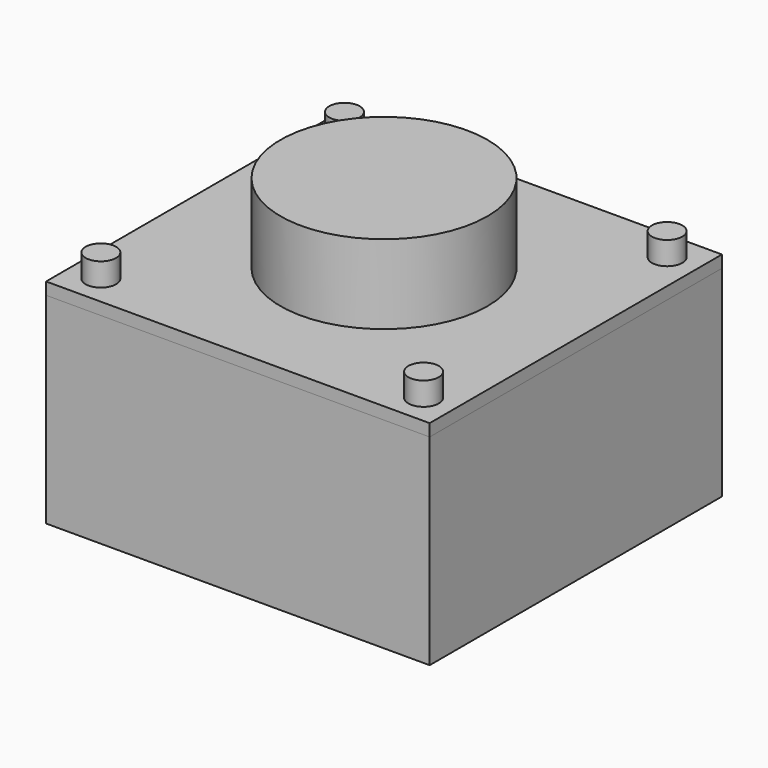
from build123d import *

# Parameters (mm, degrees)
F0_W     = 6.3
F0_H     = 6
F1_DEPTH = 3.3
F2_W     = 6.3
F2_H     = 6
F3_DEPTH = 0.2
F4_R     = 1.7
F5_DEPTH = 1.5
F4_R_2   = 0.25
F6_DEPTH = 0.58


with BuildPart() as f1:
    # F0 (on Top) → F1 (new body)
    with BuildSketch(Plane.XY):
        Rectangle(F0_W, F0_H)
    extrude(amount=F1_DEPTH)


with BuildPart() as f3:
    # F2 (on face) → F3 (new body)
    with BuildSketch(Plane.XY.offset(3.3)):
        Rectangle(F2_W, F2_H)
    extrude(amount=F3_DEPTH)


with BuildPart() as f5:
    # F4 (on face) → F5 (new body)
    with BuildSketch(Plane.XY.offset(3.3)):
        Circle(F4_R)
    extrude(amount=F5_DEPTH)


with BuildPart() as f6:
    # F4 (on face) → F6 (new body)
    with BuildSketch(Plane.XY.offset(3.3)):
        with Locations((-2.65, 2.5)):
            Circle(F4_R_2)
        with Locations((2.65, 2.5)):
            Circle(F4_R_2)
        with Locations((2.65, -2.5)):
            Circle(F4_R_2)
        with Locations((-2.65, -2.5)):
            Circle(F4_R_2)
    extrude(amount=F6_DEPTH)


solid = Compound([f1.part, f3.part, f5.part, f6.part])
